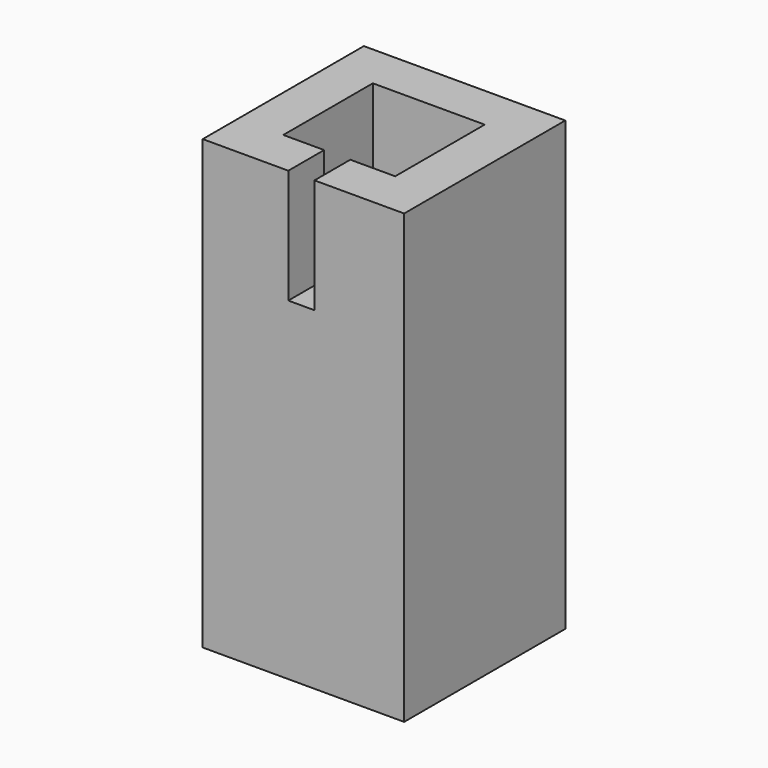
from build123d import *

# Parameters (mm, degrees)
F0_W     = 45
F0_H     = 45
F1_DEPTH = 100
F2_W     = 25
F2_H     = 25
F3_DEPTH = 63
F4_W     = 5.842124
F4_H     = 25.543576
F5_DEPTH = 10


with BuildPart() as f1:
    # F0 (on Top) → F1 (new body)
    with BuildSketch(Plane.XY):
        Rectangle(F0_W, F0_H)
    extrude(amount=F1_DEPTH)

    # F2 (on face) → F3 (cut)
    with BuildSketch(Plane.XY.offset(100)):
        Rectangle(F2_W, F2_H)
    extrude(amount=-F3_DEPTH, mode=Mode.SUBTRACT)

    # F4 (on face) → F5 (cut)
    with BuildSketch(Plane.XZ.offset(22.5)):
        with Locations((-0.454231, 87.228212)):
            Rectangle(F4_W, F4_H)
    extrude(amount=-F5_DEPTH, mode=Mode.SUBTRACT)


solid = f1.part
